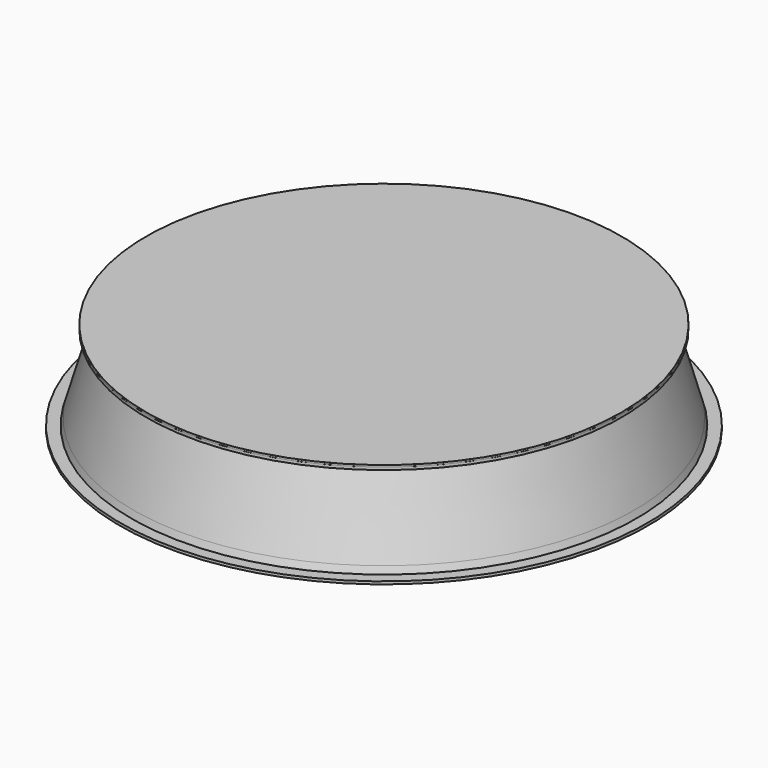
from build123d import *

# Parameters (mm, degrees)
F2_R     = 132.5
F2_R_2   = 125
F3_DEPTH = 1


with BuildPart() as f1:
    # F0 (on Front) → F1 (revolve)
    with BuildSketch(Plane.XZ):
        Polygon((-147, -23.5), (-147, -25), (-139.5, -25), (-139.0666314375, -23.5056256464), (-125, 25), (-132.5, 25), (-132.5, 23.5), (-126.996801844, 23.5), (-127.1037506395, 23.13121105), (-139.5337813165, -19.7309636981), (-140.626801844, -23.5), align=None)
    revolve(axis=Axis((0, 0, 12.5), (0, 0, 1)))


with BuildPart() as f3:
    # F2 (on face) → F3 (new body)
    with BuildSketch(Plane.XY.offset(25)):
        Circle(F2_R)
        Circle(F2_R_2, mode=Mode.SUBTRACT)
        Circle(F2_R)
    extrude(amount=F3_DEPTH)


solid = Compound([f1.part, f3.part])
